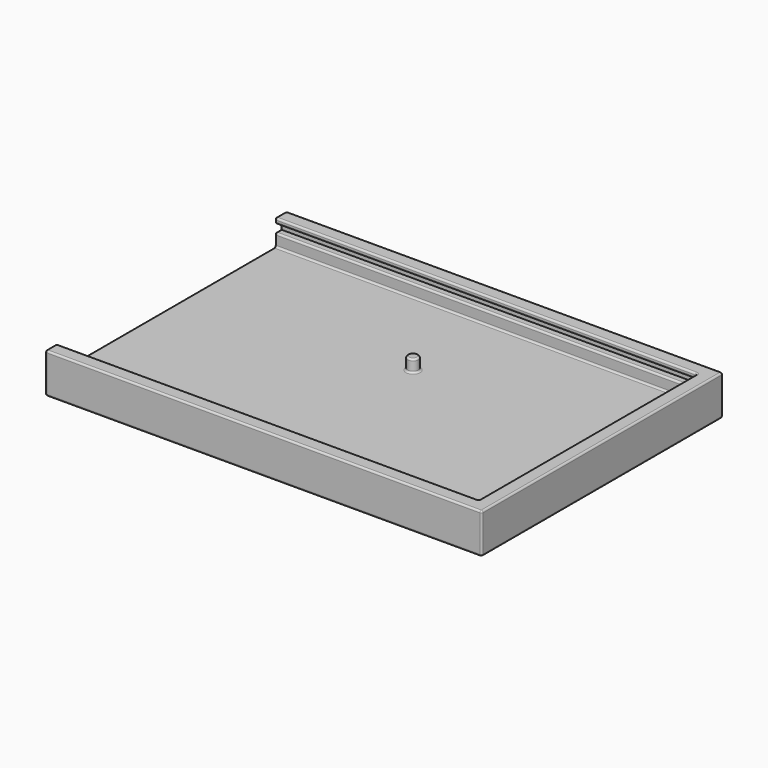
from build123d import *

# Parameters (mm, degrees)
SKETCH_W     = 122.2
SKETCH_H     = 84.4
PAD_DEPTH    = 4
SKETCH001_R  = 1.5
PAD001_DEPTH = 3.5
PAD002_DEPTH = 2.2
PAD003_DEPTH = 1.5
FILLET_R     = 0.5
POCKET_DEPTH = 0.25


with BuildPart() as part:
    # Sketch → Pad (new body)
    with BuildSketch(Plane.XY):
        with Locations((61.1, 42.2)):
            Rectangle(SKETCH_W, SKETCH_H)
    extrude(amount=PAD_DEPTH)

    # Sketch001 (on Face6 of Pad) → Pad001 (join)
    with BuildSketch(Plane.XY.offset(4)):
        with Locations((60, 53.733333)):
            Circle(SKETCH001_R)
        Polygon((0, 0), (122.2, 0), (122.2, 84.4), (0, 84.4), (0, 80.4), (118.2, 80.4), (118.2, 4), (0, 4), align=None)
    extrude(amount=PAD001_DEPTH)

    # Sketch002 (on Face5 of Pad001) → Pad002 (join)
    with BuildSketch(Plane.XY.offset(7.5)):
        Polygon((0, 0), (122.2, 0), (122.2, 84.4), (0, 84.4), (0, 82.4), (120.2, 82.4), (120.2, 2), (0, 2), align=None)
    extrude(amount=PAD002_DEPTH)

    # Sketch003 (on Face9 of Pad002) → Pad003 (join)
    with BuildSketch(Plane.XY.offset(9.7)):
        Polygon((0, 0), (122.2, 0), (122.2, 84.4), (0, 84.4), (0, 80.4), (118.2, 80.4), (118.2, 4), (0, 4), align=None)
    extrude(amount=PAD003_DEPTH)

    # Fillet
    fillet_edges = [part.edges().sort_by_distance(p)[0] for p in [
        (0, 42.2, 0),
        (0, 0, 5.6),
        (0, 2, 11.2),
        (0, 4, 10.45),
        (0, 3, 9.7),
        (0, 2, 8.6),
        (0, 3, 7.5),
        (0, 4, 5.75),
        (0, 42.2, 4),
        (0, 80.4, 5.75),
        (0, 81.4, 7.5),
        (0, 82.4, 8.6),
        (0, 81.4, 9.7),
        (0, 80.4, 10.45),
        (0, 82.4, 11.2),
        (0, 84.4, 5.6),
        (61.1, 0, 11.2),
        (122.2, 42.2, 11.2),
        (61.1, 84.4, 11.2),
        (59.1, 80.4, 11.2),
        (118.2, 42.2, 11.2),
        (59.1, 4, 11.2),
        (118.2, 80.4, 10.45),
        (59.1, 80.4, 9.7),
        (118.2, 80.4, 5.75),
        (59.1, 80.4, 4),
        (59.1, 80.4, 7.5),
        (118.2, 42.2, 4),
        (59.1, 4, 4),
        (58.5, 53.733333, 4),
        (61.1, 0, 0),
        (122.2, 0, 5.6),
        (61.5, 53.733333, 5.75),
        (58.5, 53.733333, 7.5),
        (122.2, 42.2, 0),
        (122.2, 84.4, 5.6),
        (61.1, 84.4, 0),
        (118.2, 4, 5.75),
        (118.2, 42.2, 7.5),
        (59.1, 4, 7.5),
        (118.2, 4, 10.45),
        (59.1, 4, 9.7),
        (118.2, 42.2, 9.7),
    ]]
    fillet(fillet_edges, radius=FILLET_R)

    # Sketch004 → Pocket (cut, symmetric)
    with BuildSketch(Plane(origin=(0, 0, 0), x_dir=(-1, 0, 0), z_dir=(0, 0, 1))):
        with BuildLine():
            add(Edge.make_bspline(
                [(-103.647814, -37.998612), (-104.577027, -37.998612), (-105.309283, -38.422775)],
                knots=[0, 0, 0, 1, 1, 1], degree=2))
            add(Edge.make_bspline(
                [(-105.309283, -38.422775), (-106.041539, -38.846938), (-106.460769, -39.660081)],
                knots=[0, 0, 0, 1, 1, 1], degree=2))
            add(Edge.make_bspline(
                [(-106.460769, -39.660081), (-106.88, -40.473224), (-106.88, -41.645097)],
                knots=[0, 0, 0, 1, 1, 1], degree=2))
            add(Edge.make_bspline(
                [(-106.88, -41.645097), (-106.88, -42.816641), (-106.430519, -43.629783)],
                knots=[0, 0, 0, 1, 1, 1], degree=2))
            add(Edge.make_bspline(
                [(-106.430519, -43.629783), (-105.981038, -44.442926), (-105.228725, -44.867089)],
                knots=[0, 0, 0, 1, 1, 1], degree=2))
            add(Edge.make_bspline(
                [(-105.228725, -44.867089), (-104.476082, -45.291581), (-103.566927, -45.291581)],
                knots=[0, 0, 0, 1, 1, 1], degree=2))
            add(Edge.make_bspline(
                [(-103.566927, -45.291581), (-103.031628, -45.291581), (-102.627522, -45.210694)],
                knots=[0, 0, 0, 1, 1, 1], degree=2))
            add(Edge.make_bspline(
                [(-102.627522, -45.210694), (-102.223417, -45.129807), (-101.940642, -45.01867)],
                knots=[0, 0, 0, 1, 1, 1], degree=2))
            add(Edge.make_bspline(
                [(-101.940642, -45.01867), (-101.657866, -44.907533), (-101.516479, -44.806588)],
                knots=[0, 0, 0, 1, 1, 1], degree=2))
            Line((-101.516479, -44.806588), (-101.769004, -44.140094))
            add(Edge.make_bspline(
                [(-101.769004, -44.140094), (-102.051779, -44.341982), (-102.53151, -44.468245)],
                knots=[0, 0, 0, 1, 1, 1], degree=2))
            add(Edge.make_bspline(
                [(-102.53151, -44.468245), (-103.011241, -44.594507), (-103.566927, -44.594507)],
                knots=[0, 0, 0, 1, 1, 1], degree=2))
            add(Edge.make_bspline(
                [(-103.566927, -44.594507), (-104.273865, -44.594507), (-104.834483, -44.261095)],
                knots=[0, 0, 0, 1, 1, 1], degree=2))
            add(Edge.make_bspline(
                [(-104.834483, -44.261095), (-105.395102, -43.928013), (-105.723581, -43.271382)],
                knots=[0, 0, 0, 1, 1, 1], degree=2))
            add(Edge.make_bspline(
                [(-105.723581, -43.271382), (-106.051732, -42.614752), (-106.051732, -41.645097)],
                knots=[0, 0, 0, 1, 1, 1], degree=2))
            add(Edge.make_bspline(
                [(-106.051732, -41.645097), (-106.051732, -40.746135), (-105.768957, -40.079311)],
                knots=[0, 0, 0, 1, 1, 1], degree=2))
            add(Edge.make_bspline(
                [(-105.768957, -40.079311), (-105.486181, -39.412817), (-104.925563, -39.049155)],
                knots=[0, 0, 0, 1, 1, 1], degree=2))
            add(Edge.make_bspline(
                [(-104.925563, -39.049155), (-104.364945, -38.685493), (-103.536677, -38.685493)],
                knots=[0, 0, 0, 1, 1, 1], degree=2))
            add(Edge.make_bspline(
                [(-103.536677, -38.685493), (-103.051685, -38.685493), (-102.723534, -38.741062)],
                knots=[0, 0, 0, 1, 1, 1], degree=2))
            add(Edge.make_bspline(
                [(-102.723534, -38.741062), (-102.395055, -38.79663), (-102.274053, -38.837074)],
                knots=[0, 0, 0, 1, 1, 1], degree=2))
            Line((-102.274053, -38.837074), (-102.274053, -41.493516))
            Line((-102.274053, -41.493516), (-101.486228, -41.493516))
            Line((-101.486228, -41.493516), (-101.486228, -38.332024))
            add(Edge.make_bspline(
                [(-101.486228, -38.332024), (-101.677924, -38.251137), (-102.248735, -38.124875)],
                knots=[0, 0, 0, 1, 1, 1], degree=2))
            add(Edge.make_bspline(
                [(-102.248735, -38.124875), (-102.819546, -37.998612), (-103.647814, -37.998612)],
                knots=[0, 0, 0, 1, 1, 1], degree=2))
        make_face()
        with BuildLine():
            add(Edge.make_bspline(
                [(-100.016455, -38.14), (-100.016455, -38.17025), (-100.021716, -38.240944)],
                knots=[0, 0, 0, 1, 1, 1], degree=2))
            add(Edge.make_bspline(
                [(-100.021716, -38.240944), (-100.026648, -38.311638), (-100.026648, -38.412582)],
                knots=[0, 0, 0, 1, 1, 1], degree=2))
            add(Edge.make_bspline(
                [(-100.026648, -38.412582), (-100.026648, -39.049155), (-99.738941, -39.56933)],
                knots=[0, 0, 0, 1, 1, 1], degree=2))
            add(Edge.make_bspline(
                [(-99.738941, -39.56933), (-99.450905, -40.089504), (-99.026742, -40.528792)],
                knots=[0, 0, 0, 1, 1, 1], degree=2))
            add(Edge.make_bspline(
                [(-99.026742, -40.528792), (-98.602251, -40.968409), (-98.198145, -41.352128)],
                knots=[0, 0, 0, 1, 1, 1], degree=2))
            add(Edge.make_bspline(
                [(-98.198145, -41.352128), (-97.85487, -41.675347), (-97.577027, -41.973247)],
                knots=[0, 0, 0, 1, 1, 1], degree=2))
            add(Edge.make_bspline(
                [(-97.577027, -41.973247), (-97.299184, -42.271148), (-97.127546, -42.604559)],
                knots=[0, 0, 0, 1, 1, 1], degree=2))
            add(Edge.make_bspline(
                [(-97.127546, -42.604559), (-96.955908, -42.937971), (-96.955908, -43.352269)],
                knots=[0, 0, 0, 1, 1, 1], degree=2))
            add(Edge.make_bspline(
                [(-96.955908, -43.352269), (-96.955908, -44.028957), (-97.31957, -44.321925)],
                knots=[0, 0, 0, 1, 1, 1], degree=2))
            add(Edge.make_bspline(
                [(-97.31957, -44.321925), (-97.683232, -44.614893), (-98.238589, -44.614893)],
                knots=[0, 0, 0, 1, 1, 1], degree=2))
            add(Edge.make_bspline(
                [(-98.238589, -44.614893), (-98.652887, -44.614893), (-98.960981, -44.488631)],
                knots=[0, 0, 0, 1, 1, 1], degree=2))
            add(Edge.make_bspline(
                [(-98.960981, -44.488631), (-99.269074, -44.362368), (-99.46603, -44.205527)],
                knots=[0, 0, 0, 1, 1, 1], degree=2))
            add(Edge.make_bspline(
                [(-99.46603, -44.205527), (-99.662986, -44.049014), (-99.753738, -43.958263)],
                knots=[0, 0, 0, 1, 1, 1], degree=2))
            Line((-99.753738, -43.958263), (-100.14765, -44.473177))
            add(Edge.make_bspline(
                [(-100.14765, -44.473177), (-100.036513, -44.594507), (-99.779056, -44.791463)],
                knots=[0, 0, 0, 1, 1, 1], degree=2))
            add(Edge.make_bspline(
                [(-99.779056, -44.791463), (-99.521599, -44.988419), (-99.127686, -45.14)],
                knots=[0, 0, 0, 1, 1, 1], degree=2))
            add(Edge.make_bspline(
                [(-99.127686, -45.14), (-98.733445, -45.291581), (-98.238589, -45.291581)],
                knots=[0, 0, 0, 1, 1, 1], degree=2))
            add(Edge.make_bspline(
                [(-98.238589, -45.291581), (-97.198239, -45.291581), (-96.673133, -44.786531)],
                knots=[0, 0, 0, 1, 1, 1], degree=2))
            add(Edge.make_bspline(
                [(-96.673133, -44.786531), (-96.147697, -44.281482), (-96.147697, -43.392384)],
                knots=[0, 0, 0, 1, 1, 1], degree=2))
            add(Edge.make_bspline(
                [(-96.147697, -43.392384), (-96.147697, -42.867277), (-96.390357, -42.417796)],
                knots=[0, 0, 0, 1, 1, 1], degree=2))
            add(Edge.make_bspline(
                [(-96.390357, -42.417796), (-96.632689, -41.968315), (-97.021669, -41.559278)],
                knots=[0, 0, 0, 1, 1, 1], degree=2))
            add(Edge.make_bspline(
                [(-97.021669, -41.559278), (-97.410321, -41.15024), (-97.834483, -40.746135)],
                knots=[0, 0, 0, 1, 1, 1], degree=2))
            add(Edge.make_bspline(
                [(-97.834483, -40.746135), (-98.157702, -40.43278), (-98.471056, -40.094437)],
                knots=[0, 0, 0, 1, 1, 1], degree=2))
            add(Edge.make_bspline(
                [(-98.471056, -40.094437), (-98.784082, -39.756093), (-98.981038, -39.427613)],
                knots=[0, 0, 0, 1, 1, 1], degree=2))
            add(Edge.make_bspline(
                [(-98.981038, -39.427613), (-99.177994, -39.099463), (-99.177994, -38.79663)],
                knots=[0, 0, 0, 1, 1, 1], degree=2))
            Line((-99.177994, -38.79663), (-95.915558, -38.79663))
            Line((-95.915558, -38.79663), (-95.915558, -38.14))
            Line((-95.915558, -38.14), (-100.016455, -38.14))
        make_face()
        Polygon((-94.202467, -38.14), (-94.202467, -45.14), (-93.414642, -45.14), (-93.414642, -38.826881), (-90.141684, -38.826881), (-90.141684, -38.14), align=None)
        with BuildLine():
            add(Edge.make_bspline(
                [(-87.532262, -38.028863), (-88.098141, -38.028863), (-88.54269, -38.190308)],
                knots=[0, 0, 0, 1, 1, 1], degree=2))
            add(Edge.make_bspline(
                [(-88.54269, -38.190308), (-88.98691, -38.352081), (-89.239434, -38.715743)],
                knots=[0, 0, 0, 1, 1, 1], degree=2))
            add(Edge.make_bspline(
                [(-89.239434, -38.715743), (-89.491959, -39.079405), (-89.491959, -39.675206)],
                knots=[0, 0, 0, 1, 1, 1], degree=2))
            add(Edge.make_bspline(
                [(-89.491959, -39.675206), (-89.491959, -40.250949), (-89.209184, -40.609679)],
                knots=[0, 0, 0, 1, 1, 1], degree=2))
            add(Edge.make_bspline(
                [(-89.209184, -40.609679), (-88.926409, -40.968409), (-88.42662, -41.129854)],
                knots=[0, 0, 0, 1, 1, 1], degree=2))
            add(Edge.make_bspline(
                [(-88.42662, -41.129854), (-87.926503, -41.291628), (-87.300123, -41.291628)],
                knots=[0, 0, 0, 1, 1, 1], degree=2))
            add(Edge.make_bspline(
                [(-87.300123, -41.291628), (-87.017348, -41.291628), (-86.704322, -41.240991)],
                knots=[0, 0, 0, 1, 1, 1], degree=2))
            add(Edge.make_bspline(
                [(-86.704322, -41.240991), (-86.390968, -41.190355), (-86.310081, -41.15024)],
                knots=[0, 0, 0, 1, 1, 1], degree=2))
            Line((-86.310081, -41.15024), (-86.310081, -41.453072))
            add(Edge.make_bspline(
                [(-86.310081, -41.453072), (-86.310081, -41.796677), (-86.396229, -42.114635)],
                knots=[0, 0, 0, 1, 1, 1], degree=2))
            add(Edge.make_bspline(
                [(-86.396229, -42.114635), (-86.482048, -42.432921), (-86.744766, -42.63481)],
                knots=[0, 0, 0, 1, 1, 1], degree=2))
            add(Edge.make_bspline(
                [(-86.744766, -42.63481), (-87.007155, -42.837027), (-87.542455, -42.837027)],
                knots=[0, 0, 0, 1, 1, 1], degree=2))
            add(Edge.make_bspline(
                [(-87.542455, -42.837027), (-88.098141, -42.837027), (-88.391109, -42.75614)],
                knots=[0, 0, 0, 1, 1, 1], degree=2))
            add(Edge.make_bspline(
                [(-88.391109, -42.75614), (-88.684077, -42.675253), (-88.825465, -42.624945)],
                knots=[0, 0, 0, 1, 1, 1], degree=2))
            Line((-88.825465, -42.624945), (-88.926409, -43.271382))
            add(Edge.make_bspline(
                [(-88.926409, -43.271382), (-88.744578, -43.352269), (-88.371052, -43.422963)],
                knots=[0, 0, 0, 1, 1, 1], degree=2))
            add(Edge.make_bspline(
                [(-88.371052, -43.422963), (-87.997197, -43.493657), (-87.492147, -43.493657)],
                knots=[0, 0, 0, 1, 1, 1], degree=2))
            add(Edge.make_bspline(
                [(-87.492147, -43.493657), (-86.774687, -43.493657), (-86.355786, -43.241132)],
                knots=[0, 0, 0, 1, 1, 1], degree=2))
            add(Edge.make_bspline(
                [(-86.355786, -43.241132), (-85.936555, -42.988607), (-85.749792, -42.548991)],
                knots=[0, 0, 0, 1, 1, 1], degree=2))
            add(Edge.make_bspline(
                [(-85.749792, -42.548991), (-85.5627, -42.109703), (-85.5627, -41.544152)],
                knots=[0, 0, 0, 1, 1, 1], degree=2))
            Line((-85.5627, -41.544152), (-85.5627, -38.26133))
            add(Edge.make_bspline(
                [(-85.5627, -38.26133), (-85.774781, -38.210694), (-86.320274, -38.119943)],
                knots=[0, 0, 0, 1, 1, 1], degree=2))
            add(Edge.make_bspline(
                [(-86.320274, -38.119943), (-86.865767, -38.028863), (-87.532262, -38.028863)],
                knots=[0, 0, 0, 1, 1, 1], degree=2))
        make_face()
        with BuildLine():
            add(Edge.make_bspline(
                [(-87.421453, -38.6753), (-87.067655, -38.6753), (-86.78488, -38.700618)],
                knots=[0, 0, 0, 1, 1, 1], degree=2))
            add(Edge.make_bspline(
                [(-86.78488, -38.700618), (-86.502105, -38.725936), (-86.310081, -38.76638)],
                knots=[0, 0, 0, 1, 1, 1], degree=2))
            Line((-86.310081, -38.76638), (-86.310081, -40.52386))
            add(Edge.make_bspline(
                [(-86.310081, -40.52386), (-86.411354, -40.574497), (-86.653686, -40.624804)],
                knots=[0, 0, 0, 1, 1, 1], degree=2))
            add(Edge.make_bspline(
                [(-86.653686, -40.624804), (-86.896018, -40.675441), (-87.279737, -40.675441)],
                knots=[0, 0, 0, 1, 1, 1], degree=2))
            add(Edge.make_bspline(
                [(-87.279737, -40.675441), (-87.603284, -40.675441), (-87.936696, -40.604747)],
                knots=[0, 0, 0, 1, 1, 1], degree=2))
            add(Edge.make_bspline(
                [(-87.936696, -40.604747), (-88.269779, -40.534053), (-88.496985, -40.321643)],
                knots=[0, 0, 0, 1, 1, 1], degree=2))
            add(Edge.make_bspline(
                [(-88.496985, -40.321643), (-88.724192, -40.109562), (-88.724192, -39.685399)],
                knots=[0, 0, 0, 1, 1, 1], degree=2))
            add(Edge.make_bspline(
                [(-88.724192, -39.685399), (-88.724192, -39.119849), (-88.370723, -38.897574)],
                knots=[0, 0, 0, 1, 1, 1], degree=2))
            add(Edge.make_bspline(
                [(-88.370723, -38.897574), (-88.017254, -38.6753), (-87.421453, -38.6753)],
                knots=[0, 0, 0, 1, 1, 1], degree=2))
        make_face(mode=Mode.SUBTRACT)
        with BuildLine():
            add(Edge.make_bspline(
                [(-81.991184, -38.01867), (-82.435733, -38.01867), (-82.799395, -38.064374)],
                knots=[0, 0, 0, 1, 1, 1], degree=2))
            add(Edge.make_bspline(
                [(-82.799395, -38.064374), (-83.163057, -38.10975), (-83.4409, -38.175182)],
                knots=[0, 0, 0, 1, 1, 1], degree=2))
            add(Edge.make_bspline(
                [(-83.4409, -38.175182), (-83.718414, -38.240944), (-83.920631, -38.301774)],
                knots=[0, 0, 0, 1, 1, 1], degree=2))
            Line((-83.920631, -38.301774), (-83.920631, -45.846938))
            Line((-83.920631, -45.846938), (-83.163057, -45.978461))
            Line((-83.163057, -45.978461), (-83.163057, -43.079358))
            add(Edge.make_bspline(
                [(-83.163057, -43.079358), (-82.981226, -43.210553), (-82.612632, -43.347008)],
                knots=[0, 0, 0, 1, 1, 1], degree=2))
            add(Edge.make_bspline(
                [(-82.612632, -43.347008), (-82.243709, -43.483464), (-81.758717, -43.483464)],
                knots=[0, 0, 0, 1, 1, 1], degree=2))
            add(Edge.make_bspline(
                [(-81.758717, -43.483464), (-81.001142, -43.483464), (-80.476035, -43.134927)],
                knots=[0, 0, 0, 1, 1, 1], degree=2))
            add(Edge.make_bspline(
                [(-80.476035, -43.134927), (-79.950929, -42.78639), (-79.673086, -42.170203)],
                knots=[0, 0, 0, 1, 1, 1], degree=2))
            add(Edge.make_bspline(
                [(-79.673086, -42.170203), (-79.395243, -41.554017), (-79.395243, -40.755999)],
                knots=[0, 0, 0, 1, 1, 1], degree=2))
            add(Edge.make_bspline(
                [(-79.395243, -40.755999), (-79.395243, -39.907673), (-79.718461, -39.296419)],
                knots=[0, 0, 0, 1, 1, 1], degree=2))
            add(Edge.make_bspline(
                [(-79.718461, -39.296419), (-80.04168, -38.685493), (-80.627616, -38.352081)],
                knots=[0, 0, 0, 1, 1, 1], degree=2))
            add(Edge.make_bspline(
                [(-80.627616, -38.352081), (-81.213552, -38.01867), (-81.991184, -38.01867)],
                knots=[0, 0, 0, 1, 1, 1], degree=2))
        make_face()
        with BuildLine():
            add(Edge.make_bspline(
                [(-82.001377, -38.695686), (-81.455884, -38.695686), (-81.046847, -38.938018)],
                knots=[0, 0, 0, 1, 1, 1], degree=2))
            add(Edge.make_bspline(
                [(-81.046847, -38.938018), (-80.637809, -39.180349), (-80.415535, -39.640023)],
                knots=[0, 0, 0, 1, 1, 1], degree=2))
            add(Edge.make_bspline(
                [(-80.415535, -39.640023), (-80.19326, -40.099697), (-80.19326, -40.755999)],
                knots=[0, 0, 0, 1, 1, 1], degree=2))
            add(Edge.make_bspline(
                [(-80.19326, -40.755999), (-80.19326, -41.18049), (-80.279079, -41.554017)],
                knots=[0, 0, 0, 1, 1, 1], degree=2))
            add(Edge.make_bspline(
                [(-80.279079, -41.554017), (-80.364898, -41.927872), (-80.561854, -42.210647)],
                knots=[0, 0, 0, 1, 1, 1], degree=2))
            add(Edge.make_bspline(
                [(-80.561854, -42.210647), (-80.758811, -42.493422), (-81.077097, -42.649935)],
                knots=[0, 0, 0, 1, 1, 1], degree=2))
            add(Edge.make_bspline(
                [(-81.077097, -42.649935), (-81.395383, -42.806776), (-81.849797, -42.806776)],
                knots=[0, 0, 0, 1, 1, 1], degree=2))
            add(Edge.make_bspline(
                [(-81.849797, -42.806776), (-82.284152, -42.806776), (-82.637621, -42.660128)],
                knots=[0, 0, 0, 1, 1, 1], degree=2))
            add(Edge.make_bspline(
                [(-82.637621, -42.660128), (-82.99109, -42.513808), (-83.163057, -42.37242)],
                knots=[0, 0, 0, 1, 1, 1], degree=2))
            Line((-83.163057, -42.37242), (-83.163057, -38.826881))
            add(Edge.make_bspline(
                [(-83.163057, -38.826881), (-83.02134, -38.786437), (-82.733633, -38.741062)],
                knots=[0, 0, 0, 1, 1, 1], degree=2))
            add(Edge.make_bspline(
                [(-82.733633, -38.741062), (-82.445597, -38.695686), (-82.001377, -38.695686)],
                knots=[0, 0, 0, 1, 1, 1], degree=2))
        make_face(mode=Mode.SUBTRACT)
        with BuildLine():
            add(Edge.make_bspline(
                [(-76.886106, -38.01867), (-77.562794, -38.01867), (-77.941581, -38.135068)],
                knots=[0, 0, 0, 1, 1, 1], degree=2))
            add(Edge.make_bspline(
                [(-77.941581, -38.135068), (-78.320368, -38.251137), (-78.451563, -38.311638)],
                knots=[0, 0, 0, 1, 1, 1], degree=2))
            Line((-78.451563, -38.311638), (-78.269732, -38.978461))
            add(Edge.make_bspline(
                [(-78.269732, -38.978461), (-78.158594, -38.938018), (-77.815319, -38.806494)],
                knots=[0, 0, 0, 1, 1, 1], degree=2))
            add(Edge.make_bspline(
                [(-77.815319, -38.806494), (-77.471714, -38.6753), (-76.886106, -38.6753)],
                knots=[0, 0, 0, 1, 1, 1], degree=2))
            add(Edge.make_bspline(
                [(-76.886106, -38.6753), (-76.33042, -38.6753), (-75.987144, -38.846938)],
                knots=[0, 0, 0, 1, 1, 1], degree=2))
            add(Edge.make_bspline(
                [(-75.987144, -38.846938), (-75.64354, -39.018905), (-75.64354, -39.443067)],
                knots=[0, 0, 0, 1, 1, 1], degree=2))
            add(Edge.make_bspline(
                [(-75.64354, -39.443067), (-75.64354, -39.715649), (-75.76487, -39.882355)],
                knots=[0, 0, 0, 1, 1, 1], degree=2))
            add(Edge.make_bspline(
                [(-75.76487, -39.882355), (-75.885871, -40.049061), (-76.153521, -40.190449)],
                knots=[0, 0, 0, 1, 1, 1], degree=2))
            add(Edge.make_bspline(
                [(-76.153521, -40.190449), (-76.421171, -40.331836), (-76.886106, -40.513667)],
                knots=[0, 0, 0, 1, 1, 1], degree=2))
            add(Edge.make_bspline(
                [(-76.886106, -40.513667), (-77.280019, -40.675441), (-77.61343, -40.857272)],
                knots=[0, 0, 0, 1, 1, 1], degree=2))
            add(Edge.make_bspline(
                [(-77.61343, -40.857272), (-77.946513, -41.039103), (-78.153662, -41.321878)],
                knots=[0, 0, 0, 1, 1, 1], degree=2))
            add(Edge.make_bspline(
                [(-78.153662, -41.321878), (-78.360812, -41.604653), (-78.360812, -42.049202)],
                knots=[0, 0, 0, 1, 1, 1], degree=2))
            add(Edge.make_bspline(
                [(-78.360812, -42.049202), (-78.360812, -42.483558), (-78.138537, -42.806776)],
                knots=[0, 0, 0, 1, 1, 1], degree=2))
            add(Edge.make_bspline(
                [(-78.138537, -42.806776), (-77.916263, -43.129995), (-77.507225, -43.311826)],
                knots=[0, 0, 0, 1, 1, 1], degree=2))
            add(Edge.make_bspline(
                [(-77.507225, -43.311826), (-77.098188, -43.493657), (-76.532309, -43.493657)],
                knots=[0, 0, 0, 1, 1, 1], degree=2))
            add(Edge.make_bspline(
                [(-76.532309, -43.493657), (-76.007202, -43.493657), (-75.64354, -43.402577)],
                knots=[0, 0, 0, 1, 1, 1], degree=2))
            add(Edge.make_bspline(
                [(-75.64354, -43.402577), (-75.279878, -43.311826), (-75.128297, -43.241132)],
                knots=[0, 0, 0, 1, 1, 1], degree=2))
            Line((-75.128297, -43.241132), (-75.300264, -42.584502))
            add(Edge.make_bspline(
                [(-75.300264, -42.584502), (-75.431458, -42.655196), (-75.724427, -42.751208)],
                knots=[0, 0, 0, 1, 1, 1], degree=2))
            add(Edge.make_bspline(
                [(-75.724427, -42.751208), (-76.017395, -42.84722), (-76.552695, -42.84722)],
                knots=[0, 0, 0, 1, 1, 1], degree=2))
            add(Edge.make_bspline(
                [(-76.552695, -42.84722), (-76.976857, -42.84722), (-77.290212, -42.670321)],
                knots=[0, 0, 0, 1, 1, 1], degree=2))
            add(Edge.make_bspline(
                [(-77.290212, -42.670321), (-77.603237, -42.493422), (-77.603237, -42.109703)],
                knots=[0, 0, 0, 1, 1, 1], degree=2))
            add(Edge.make_bspline(
                [(-77.603237, -42.109703), (-77.603237, -41.837121), (-77.472043, -41.670415)],
                knots=[0, 0, 0, 1, 1, 1], degree=2))
            add(Edge.make_bspline(
                [(-77.472043, -41.670415), (-77.340519, -41.503709), (-77.07813, -41.372186)],
                knots=[0, 0, 0, 1, 1, 1], degree=2))
            add(Edge.make_bspline(
                [(-77.07813, -41.372186), (-76.815413, -41.240991), (-76.431364, -41.08941)],
                knots=[0, 0, 0, 1, 1, 1], degree=2))
            add(Edge.make_bspline(
                [(-76.431364, -41.08941), (-75.997009, -40.917773), (-75.648801, -40.730681)],
                knots=[0, 0, 0, 1, 1, 1], degree=2))
            add(Edge.make_bspline(
                [(-75.648801, -40.730681), (-75.300264, -40.543918), (-75.088183, -40.250949)],
                knots=[0, 0, 0, 1, 1, 1], degree=2))
            add(Edge.make_bspline(
                [(-75.088183, -40.250949), (-74.875772, -39.95831), (-74.875772, -39.473318)],
                knots=[0, 0, 0, 1, 1, 1], degree=2))
            add(Edge.make_bspline(
                [(-74.875772, -39.473318), (-74.875772, -38.998518), (-75.118433, -38.670039)],
                knots=[0, 0, 0, 1, 1, 1], degree=2))
            add(Edge.make_bspline(
                [(-75.118433, -38.670039), (-75.360765, -38.341888), (-75.810246, -38.180115)],
                knots=[0, 0, 0, 1, 1, 1], degree=2))
            add(Edge.make_bspline(
                [(-75.810246, -38.180115), (-76.259727, -38.01867), (-76.886106, -38.01867)],
                knots=[0, 0, 0, 1, 1, 1], degree=2))
        make_face()
        with BuildLine():
            add(Edge.make_bspline(
                [(-68.719166, -37.988419), (-69.658571, -37.988419), (-70.22445, -38.352081)],
                knots=[0, 0, 0, 1, 1, 1], degree=2))
            add(Edge.make_bspline(
                [(-70.22445, -38.352081), (-70.79, -38.715743), (-71.047786, -39.341794)],
                knots=[0, 0, 0, 1, 1, 1], degree=2))
            add(Edge.make_bspline(
                [(-71.047786, -39.341794), (-71.305243, -39.968174), (-71.305243, -40.746135)],
                knots=[0, 0, 0, 1, 1, 1], degree=2))
            Line((-71.305243, -40.746135), (-71.305243, -45.14))
            Line((-71.305243, -45.14), (-70.517418, -45.14))
            Line((-70.517418, -45.14), (-70.517418, -40.836886))
            add(Edge.make_bspline(
                [(-70.517418, -40.836886), (-70.517418, -39.715649), (-70.017301, -39.205668)],
                knots=[0, 0, 0, 1, 1, 1], degree=2))
            add(Edge.make_bspline(
                [(-70.017301, -39.205668), (-69.517183, -38.695686), (-68.719166, -38.695686)],
                knots=[0, 0, 0, 1, 1, 1], degree=2))
            add(Edge.make_bspline(
                [(-68.719166, -38.695686), (-67.911284, -38.695686), (-67.411495, -39.2106)],
                knots=[0, 0, 0, 1, 1, 1], degree=2))
            add(Edge.make_bspline(
                [(-67.411495, -39.2106), (-66.911378, -39.725842), (-66.911378, -40.836886)],
                knots=[0, 0, 0, 1, 1, 1], degree=2))
            Line((-66.911378, -40.836886), (-66.911378, -45.14))
            Line((-66.911378, -45.14), (-66.123224, -45.14))
            Line((-66.123224, -45.14), (-66.123224, -40.746135))
            add(Edge.make_bspline(
                [(-66.123224, -40.746135), (-66.123224, -39.968174), (-66.38101, -39.341794)],
                knots=[0, 0, 0, 1, 1, 1], degree=2))
            add(Edge.make_bspline(
                [(-66.38101, -39.341794), (-66.638467, -38.715743), (-67.204346, -38.352081)],
                knots=[0, 0, 0, 1, 1, 1], degree=2))
            add(Edge.make_bspline(
                [(-67.204346, -38.352081), (-67.769896, -37.988419), (-68.719166, -37.988419)],
                knots=[0, 0, 0, 1, 1, 1], degree=2))
        make_face()
        with BuildLine():
            add(Edge.make_bspline(
                [(-62.817057, -37.988419), (-63.635132, -37.988419), (-64.175693, -38.17025)],
                knots=[0, 0, 0, 1, 1, 1], degree=2))
            add(Edge.make_bspline(
                [(-64.175693, -38.17025), (-64.715925, -38.352081), (-64.918142, -38.473412)],
                knots=[0, 0, 0, 1, 1, 1], degree=2))
            Line((-64.918142, -38.473412), (-64.665617, -39.139906))
            add(Edge.make_bspline(
                [(-64.665617, -39.139906), (-64.453207, -39.018905), (-63.983668, -38.846938)],
                knots=[0, 0, 0, 1, 1, 1], degree=2))
            add(Edge.make_bspline(
                [(-63.983668, -38.846938), (-63.513801, -38.6753), (-62.817057, -38.6753)],
                knots=[0, 0, 0, 1, 1, 1], degree=2))
            add(Edge.make_bspline(
                [(-62.817057, -38.6753), (-62.019039, -38.6753), (-61.584683, -38.963007)],
                knots=[0, 0, 0, 1, 1, 1], degree=2))
            add(Edge.make_bspline(
                [(-61.584683, -38.963007), (-61.150327, -39.251043), (-61.150327, -39.877423)],
                knots=[0, 0, 0, 1, 1, 1], degree=2))
            add(Edge.make_bspline(
                [(-61.150327, -39.877423), (-61.150327, -40.362087), (-61.387727, -40.63993)],
                knots=[0, 0, 0, 1, 1, 1], degree=2))
            add(Edge.make_bspline(
                [(-61.387727, -40.63993), (-61.625126, -40.917773), (-62.014107, -41.094343)],
                knots=[0, 0, 0, 1, 1, 1], degree=2))
            add(Edge.make_bspline(
                [(-62.014107, -41.094343), (-62.402758, -41.271241), (-62.867364, -41.453072)],
                knots=[0, 0, 0, 1, 1, 1], degree=2))
            add(Edge.make_bspline(
                [(-62.867364, -41.453072), (-63.433243, -41.675347), (-63.852474, -41.922611)],
                knots=[0, 0, 0, 1, 1, 1], degree=2))
            add(Edge.make_bspline(
                [(-63.852474, -41.922611), (-64.271376, -42.170203), (-64.498911, -42.528604)],
                knots=[0, 0, 0, 1, 1, 1], degree=2))
            add(Edge.make_bspline(
                [(-64.498911, -42.528604), (-64.726118, -42.887334), (-64.726118, -43.432827)],
                knots=[0, 0, 0, 1, 1, 1], degree=2))
            add(Edge.make_bspline(
                [(-64.726118, -43.432827), (-64.726118, -44.038821), (-64.453536, -44.453119)],
                knots=[0, 0, 0, 1, 1, 1], degree=2))
            add(Edge.make_bspline(
                [(-64.453536, -44.453119), (-64.180625, -44.867418), (-63.665711, -45.079499)],
                knots=[0, 0, 0, 1, 1, 1], degree=2))
            add(Edge.make_bspline(
                [(-63.665711, -45.079499), (-63.150468, -45.291581), (-62.443202, -45.291581)],
                knots=[0, 0, 0, 1, 1, 1], degree=2))
            add(Edge.make_bspline(
                [(-62.443202, -45.291581), (-61.857265, -45.291581), (-61.357477, -45.144932)],
                knots=[0, 0, 0, 1, 1, 1], degree=2))
            add(Edge.make_bspline(
                [(-61.357477, -45.144932), (-60.857359, -44.998612), (-60.584777, -44.826974)],
                knots=[0, 0, 0, 1, 1, 1], degree=2))
            Line((-60.584777, -44.826974), (-60.847166, -44.170344))
            add(Edge.make_bspline(
                [(-60.847166, -44.170344), (-61.140134, -44.372233), (-61.559365, -44.493563)],
                knots=[0, 0, 0, 1, 1, 1], degree=2))
            add(Edge.make_bspline(
                [(-61.559365, -44.493563), (-61.978595, -44.614893), (-62.453395, -44.614893)],
                knots=[0, 0, 0, 1, 1, 1], degree=2))
            add(Edge.make_bspline(
                [(-62.453395, -44.614893), (-63.099832, -44.614893), (-63.51413, -44.352175)],
                knots=[0, 0, 0, 1, 1, 1], degree=2))
            add(Edge.make_bspline(
                [(-63.51413, -44.352175), (-63.9281, -44.089457), (-63.9281, -43.493657)],
                knots=[0, 0, 0, 1, 1, 1], degree=2))
            add(Edge.make_bspline(
                [(-63.9281, -43.493657), (-63.9281, -43.089551), (-63.726212, -42.837027)],
                knots=[0, 0, 0, 1, 1, 1], degree=2))
            add(Edge.make_bspline(
                [(-63.726212, -42.837027), (-63.523994, -42.584502), (-63.170526, -42.412535)],
                knots=[0, 0, 0, 1, 1, 1], degree=2))
            add(Edge.make_bspline(
                [(-63.170526, -42.412535), (-62.817057, -42.240897), (-62.372508, -42.059066)],
                knots=[0, 0, 0, 1, 1, 1], degree=2))
            add(Edge.make_bspline(
                [(-62.372508, -42.059066), (-61.796764, -41.837121), (-61.337419, -41.589528)],
                knots=[0, 0, 0, 1, 1, 1], degree=2))
            add(Edge.make_bspline(
                [(-61.337419, -41.589528), (-60.877745, -41.341935), (-60.605163, -40.952955)],
                knots=[0, 0, 0, 1, 1, 1], degree=2))
            add(Edge.make_bspline(
                [(-60.605163, -40.952955), (-60.332252, -40.564304), (-60.332252, -39.907673)],
                knots=[0, 0, 0, 1, 1, 1], degree=2))
            add(Edge.make_bspline(
                [(-60.332252, -39.907673), (-60.332252, -39.271429), (-60.635413, -38.846938)],
                knots=[0, 0, 0, 1, 1, 1], degree=2))
            add(Edge.make_bspline(
                [(-60.635413, -38.846938), (-60.938246, -38.422775), (-61.493932, -38.205433)],
                knots=[0, 0, 0, 1, 1, 1], degree=2))
            add(Edge.make_bspline(
                [(-61.493932, -38.205433), (-62.049289, -37.988419), (-62.817057, -37.988419)],
                knots=[0, 0, 0, 1, 1, 1], degree=2))
        make_face()
        with BuildLine():
            add(Edge.make_bspline(
                [(-57.311819, -38.079499), (-57.55448, -38.079499), (-57.88263, -38.104818)],
                knots=[0, 0, 0, 1, 1, 1], degree=2))
            add(Edge.make_bspline(
                [(-57.88263, -38.104818), (-58.210781, -38.129807), (-58.524135, -38.17025)],
                knots=[0, 0, 0, 1, 1, 1], degree=2))
            add(Edge.make_bspline(
                [(-58.524135, -38.17025), (-58.837161, -38.210694), (-59.059435, -38.271195)],
                knots=[0, 0, 0, 1, 1, 1], degree=2))
            Line((-59.059435, -38.271195), (-59.059435, -45.008805))
            add(Edge.make_bspline(
                [(-59.059435, -45.008805), (-58.806911, -45.079499), (-58.488953, -45.119614)],
                knots=[0, 0, 0, 1, 1, 1], degree=2))
            add(Edge.make_bspline(
                [(-58.488953, -45.119614), (-58.170666, -45.160057), (-57.85238, -45.180115)],
                knots=[0, 0, 0, 1, 1, 1], degree=2))
            add(Edge.make_bspline(
                [(-57.85238, -45.180115), (-57.534094, -45.200501), (-57.271376, -45.200501)],
                knots=[0, 0, 0, 1, 1, 1], degree=2))
            add(Edge.make_bspline(
                [(-57.271376, -45.200501), (-56.493744, -45.200501), (-55.852568, -45.033795)],
                knots=[0, 0, 0, 1, 1, 1], degree=2))
            add(Edge.make_bspline(
                [(-55.852568, -45.033795), (-55.211063, -44.867418), (-54.822083, -44.468245)],
                knots=[0, 0, 0, 1, 1, 1], degree=2))
            add(Edge.make_bspline(
                [(-54.822083, -44.468245), (-54.433102, -44.0694), (-54.433102, -43.372327)],
                knots=[0, 0, 0, 1, 1, 1], degree=2))
            add(Edge.make_bspline(
                [(-54.433102, -43.372327), (-54.433102, -42.826834), (-54.710945, -42.432921)],
                knots=[0, 0, 0, 1, 1, 1], degree=2))
            add(Edge.make_bspline(
                [(-54.710945, -42.432921), (-54.988788, -42.039009), (-55.463588, -41.877235)],
                knots=[0, 0, 0, 1, 1, 1], degree=2))
            add(Edge.make_bspline(
                [(-55.463588, -41.877235), (-54.857265, -41.71579), (-54.473546, -41.316617)],
                knots=[0, 0, 0, 1, 1, 1], degree=2))
            add(Edge.make_bspline(
                [(-54.473546, -41.316617), (-54.089827, -40.917773), (-54.089827, -40.129948)],
                knots=[0, 0, 0, 1, 1, 1], degree=2))
            add(Edge.make_bspline(
                [(-54.089827, -40.129948), (-54.089827, -39.119849), (-54.882912, -38.599674)],
                knots=[0, 0, 0, 1, 1, 1], degree=2))
            add(Edge.make_bspline(
                [(-54.882912, -38.599674), (-55.675669, -38.079499), (-57.311819, -38.079499)],
                knots=[0, 0, 0, 1, 1, 1], degree=2))
        make_face()
        with BuildLine():
            add(Edge.make_bspline(
                [(-57.231261, -38.745994), (-56.624939, -38.745994), (-56.0949, -38.857131)],
                knots=[0, 0, 0, 1, 1, 1], degree=2))
            add(Edge.make_bspline(
                [(-56.0949, -38.857131), (-55.564532, -38.968268), (-55.241313, -39.271101)],
                knots=[0, 0, 0, 1, 1, 1], degree=2))
            add(Edge.make_bspline(
                [(-55.241313, -39.271101), (-54.918095, -39.574262), (-54.918095, -40.140141)],
                knots=[0, 0, 0, 1, 1, 1], degree=2))
            add(Edge.make_bspline(
                [(-54.918095, -40.140141), (-54.918095, -40.917773), (-55.44353, -41.190355)],
                knots=[0, 0, 0, 1, 1, 1], degree=2))
            add(Edge.make_bspline(
                [(-55.44353, -41.190355), (-55.968637, -41.463266), (-56.877463, -41.463266)],
                knots=[0, 0, 0, 1, 1, 1], degree=2))
            Line((-56.877463, -41.463266), (-58.281475, -41.463266))
            Line((-58.281475, -41.463266), (-58.281475, -38.806823))
            add(Edge.make_bspline(
                [(-58.281475, -38.806823), (-58.12003, -38.786437), (-57.827062, -38.766051)],
                knots=[0, 0, 0, 1, 1, 1], degree=2))
            add(Edge.make_bspline(
                [(-57.827062, -38.766051), (-57.534094, -38.745994), (-57.231261, -38.745994)],
                knots=[0, 0, 0, 1, 1, 1], degree=2))
        make_face(mode=Mode.SUBTRACT)
        with BuildLine():
            Line((-58.281475, -42.119896), (-57.008987, -42.119896))
            add(Edge.make_bspline(
                [(-57.008987, -42.119896), (-56.503937, -42.119896), (-56.105093, -42.22084)],
                knots=[0, 0, 0, 1, 1, 1], degree=2))
            add(Edge.make_bspline(
                [(-56.105093, -42.22084), (-55.705919, -42.321784), (-55.473781, -42.589434)],
                knots=[0, 0, 0, 1, 1, 1], degree=2))
            add(Edge.make_bspline(
                [(-55.473781, -42.589434), (-55.241313, -42.857084), (-55.241313, -43.342076)],
                knots=[0, 0, 0, 1, 1, 1], degree=2))
            add(Edge.make_bspline(
                [(-55.241313, -43.342076), (-55.241313, -43.998706), (-55.791738, -44.266356)],
                knots=[0, 0, 0, 1, 1, 1], degree=2))
            add(Edge.make_bspline(
                [(-55.791738, -44.266356), (-56.342163, -44.534006), (-57.241125, -44.534006)],
                knots=[0, 0, 0, 1, 1, 1], degree=2))
            add(Edge.make_bspline(
                [(-57.241125, -44.534006), (-57.58473, -44.534006), (-57.847448, -44.518881)],
                knots=[0, 0, 0, 1, 1, 1], degree=2))
            add(Edge.make_bspline(
                [(-57.847448, -44.518881), (-58.109837, -44.503756), (-58.281475, -44.473177)],
                knots=[0, 0, 0, 1, 1, 1], degree=2))
            Line((-58.281475, -44.473177), (-58.281475, -42.119896))
        make_face(mode=Mode.SUBTRACT)
        with BuildLine():
            Line((-50.326287, -38.14), (-50.326287, -45.008805))
            add(Edge.make_bspline(
                [(-50.326287, -45.008805), (-49.942567, -45.10975), (-49.44245, -45.155125)],
                knots=[0, 0, 0, 1, 1, 1], degree=2))
            add(Edge.make_bspline(
                [(-49.44245, -45.155125), (-48.942333, -45.200501), (-48.51817, -45.200501)],
                knots=[0, 0, 0, 1, 1, 1], degree=2))
            add(Edge.make_bspline(
                [(-48.51817, -45.200501), (-47.033272, -45.200501), (-46.290822, -44.62969)],
                knots=[0, 0, 0, 1, 1, 1], degree=2))
            add(Edge.make_bspline(
                [(-46.290822, -44.62969), (-45.548373, -44.059207), (-45.548373, -43.008665)],
                knots=[0, 0, 0, 1, 1, 1], degree=2))
            add(Edge.make_bspline(
                [(-45.548373, -43.008665), (-45.548373, -42.210647), (-45.917296, -41.725655)],
                knots=[0, 0, 0, 1, 1, 1], degree=2))
            add(Edge.make_bspline(
                [(-45.917296, -41.725655), (-46.28589, -41.240991), (-46.978032, -41.023649)],
                knots=[0, 0, 0, 1, 1, 1], degree=2))
            add(Edge.make_bspline(
                [(-46.978032, -41.023649), (-47.669844, -40.806635), (-48.6395, -40.806635)],
                knots=[0, 0, 0, 1, 1, 1], degree=2))
            Line((-48.6395, -40.806635), (-49.538462, -40.806635))
            Line((-49.538462, -40.806635), (-49.538462, -38.14))
            Line((-49.538462, -38.14), (-50.326287, -38.14))
        make_face()
        with BuildLine():
            Line((-49.538462, -41.483323), (-48.710194, -41.483323))
            add(Edge.make_bspline(
                [(-48.710194, -41.483323), (-47.993063, -41.483323), (-47.467956, -41.609585)],
                knots=[0, 0, 0, 1, 1, 1], degree=2))
            add(Edge.make_bspline(
                [(-47.467956, -41.609585), (-46.94252, -41.735848), (-46.654813, -42.069259)],
                knots=[0, 0, 0, 1, 1, 1], degree=2))
            add(Edge.make_bspline(
                [(-46.654813, -42.069259), (-46.366777, -42.402671), (-46.366777, -43.018858)],
                knots=[0, 0, 0, 1, 1, 1], degree=2))
            add(Edge.make_bspline(
                [(-46.366777, -43.018858), (-46.366777, -43.614658), (-46.669938, -43.937877)],
                knots=[0, 0, 0, 1, 1, 1], degree=2))
            add(Edge.make_bspline(
                [(-46.669938, -43.937877), (-46.972771, -44.261095), (-47.457763, -44.39229)],
                knots=[0, 0, 0, 1, 1, 1], degree=2))
            add(Edge.make_bspline(
                [(-47.457763, -44.39229), (-47.942427, -44.523813), (-48.487919, -44.523813)],
                knots=[0, 0, 0, 1, 1, 1], degree=2))
            add(Edge.make_bspline(
                [(-48.487919, -44.523813), (-48.841388, -44.523813), (-49.099174, -44.498495)],
                knots=[0, 0, 0, 1, 1, 1], degree=2))
            add(Edge.make_bspline(
                [(-49.099174, -44.498495), (-49.356631, -44.473177), (-49.538462, -44.453119)],
                knots=[0, 0, 0, 1, 1, 1], degree=2))
            Line((-49.538462, -44.453119), (-49.538462, -41.483323))
        make_face(mode=Mode.SUBTRACT)
        with BuildLine():
            add(Edge.make_bspline(
                [(-42.53912, -38.079499), (-42.963611, -38.079499), (-43.43841, -38.119943)],
                knots=[0, 0, 0, 1, 1, 1], degree=2))
            add(Edge.make_bspline(
                [(-43.43841, -38.119943), (-43.912881, -38.160057), (-44.286736, -38.26133)],
                knots=[0, 0, 0, 1, 1, 1], degree=2))
            Line((-44.286736, -38.26133), (-44.286736, -45.008805))
            add(Edge.make_bspline(
                [(-44.286736, -45.008805), (-43.912881, -45.10975), (-43.433149, -45.155125)],
                knots=[0, 0, 0, 1, 1, 1], degree=2))
            add(Edge.make_bspline(
                [(-43.433149, -45.155125), (-42.953418, -45.200501), (-42.529255, -45.200501)],
                knots=[0, 0, 0, 1, 1, 1], degree=2))
            add(Edge.make_bspline(
                [(-42.529255, -45.200501), (-41.387633, -45.200501), (-40.518921, -44.811521)],
                knots=[0, 0, 0, 1, 1, 1], degree=2))
            add(Edge.make_bspline(
                [(-40.518921, -44.811521), (-39.65021, -44.422869), (-39.160614, -43.635044)],
                knots=[0, 0, 0, 1, 1, 1], degree=2))
            add(Edge.make_bspline(
                [(-39.160614, -43.635044), (-38.67069, -42.84722), (-38.67069, -41.645097)],
                knots=[0, 0, 0, 1, 1, 1], degree=2))
            add(Edge.make_bspline(
                [(-38.67069, -41.645097), (-38.67069, -40.453166), (-39.160614, -39.660081)],
                knots=[0, 0, 0, 1, 1, 1], degree=2))
            add(Edge.make_bspline(
                [(-39.160614, -39.660081), (-39.65021, -38.867324), (-40.518921, -38.473412)],
                knots=[0, 0, 0, 1, 1, 1], degree=2))
            add(Edge.make_bspline(
                [(-40.518921, -38.473412), (-41.387633, -38.079499), (-42.53912, -38.079499)],
                knots=[0, 0, 0, 1, 1, 1], degree=2))
        make_face()
        with BuildLine():
            add(Edge.make_bspline(
                [(-42.458562, -38.756187), (-40.983528, -38.756187), (-40.241407, -39.528886)],
                knots=[0, 0, 0, 1, 1, 1], degree=2))
            add(Edge.make_bspline(
                [(-40.241407, -39.528886), (-39.498958, -40.301586), (-39.498958, -41.645097)],
                knots=[0, 0, 0, 1, 1, 1], degree=2))
            add(Edge.make_bspline(
                [(-39.498958, -41.645097), (-39.498958, -42.988607), (-40.236475, -43.756046)],
                knots=[0, 0, 0, 1, 1, 1], degree=2))
            add(Edge.make_bspline(
                [(-40.236475, -43.756046), (-40.973663, -44.523813), (-42.448369, -44.523813)],
                knots=[0, 0, 0, 1, 1, 1], degree=2))
            add(Edge.make_bspline(
                [(-42.448369, -44.523813), (-42.943225, -44.523813), (-43.185886, -44.493563)],
                knots=[0, 0, 0, 1, 1, 1], degree=2))
            add(Edge.make_bspline(
                [(-43.185886, -44.493563), (-43.428217, -44.463313), (-43.498911, -44.453119)],
                knots=[0, 0, 0, 1, 1, 1], degree=2))
            Line((-43.498911, -44.453119), (-43.498911, -38.826881))
            add(Edge.make_bspline(
                [(-43.498911, -38.826881), (-43.428217, -38.816687), (-43.196079, -38.786437)],
                knots=[0, 0, 0, 1, 1, 1], degree=2))
            add(Edge.make_bspline(
                [(-43.196079, -38.786437), (-42.963611, -38.756187), (-42.458562, -38.756187)],
                knots=[0, 0, 0, 1, 1, 1], degree=2))
        make_face(mode=Mode.SUBTRACT)
        with BuildLine():
            Line((-34.8381, -38.14), (-34.8381, -45.008805))
            add(Edge.make_bspline(
                [(-34.8381, -45.008805), (-34.454381, -45.10975), (-33.954264, -45.155125)],
                knots=[0, 0, 0, 1, 1, 1], degree=2))
            add(Edge.make_bspline(
                [(-33.954264, -45.155125), (-33.454146, -45.200501), (-33.029983, -45.200501)],
                knots=[0, 0, 0, 1, 1, 1], degree=2))
            add(Edge.make_bspline(
                [(-33.029983, -45.200501), (-31.545085, -45.200501), (-30.802636, -44.62969)],
                knots=[0, 0, 0, 1, 1, 1], degree=2))
            add(Edge.make_bspline(
                [(-30.802636, -44.62969), (-30.060187, -44.059207), (-30.060187, -43.008665)],
                knots=[0, 0, 0, 1, 1, 1], degree=2))
            add(Edge.make_bspline(
                [(-30.060187, -43.008665), (-30.060187, -42.210647), (-30.42911, -41.725655)],
                knots=[0, 0, 0, 1, 1, 1], degree=2))
            add(Edge.make_bspline(
                [(-30.42911, -41.725655), (-30.797704, -41.240991), (-31.489845, -41.023649)],
                knots=[0, 0, 0, 1, 1, 1], degree=2))
            add(Edge.make_bspline(
                [(-31.489845, -41.023649), (-32.181658, -40.806635), (-33.151314, -40.806635)],
                knots=[0, 0, 0, 1, 1, 1], degree=2))
            Line((-33.151314, -40.806635), (-34.050276, -40.806635))
            Line((-34.050276, -40.806635), (-34.050276, -38.14))
            Line((-34.050276, -38.14), (-34.8381, -38.14))
        make_face()
        with BuildLine():
            Line((-34.050276, -41.483323), (-33.222008, -41.483323))
            add(Edge.make_bspline(
                [(-33.222008, -41.483323), (-32.504877, -41.483323), (-31.97977, -41.609585)],
                knots=[0, 0, 0, 1, 1, 1], degree=2))
            add(Edge.make_bspline(
                [(-31.97977, -41.609585), (-31.454334, -41.735848), (-31.166627, -42.069259)],
                knots=[0, 0, 0, 1, 1, 1], degree=2))
            add(Edge.make_bspline(
                [(-31.166627, -42.069259), (-30.878591, -42.402671), (-30.878591, -43.018858)],
                knots=[0, 0, 0, 1, 1, 1], degree=2))
            add(Edge.make_bspline(
                [(-30.878591, -43.018858), (-30.878591, -43.614658), (-31.181752, -43.937877)],
                knots=[0, 0, 0, 1, 1, 1], degree=2))
            add(Edge.make_bspline(
                [(-31.181752, -43.937877), (-31.484584, -44.261095), (-31.969577, -44.39229)],
                knots=[0, 0, 0, 1, 1, 1], degree=2))
            add(Edge.make_bspline(
                [(-31.969577, -44.39229), (-32.45424, -44.523813), (-32.999733, -44.523813)],
                knots=[0, 0, 0, 1, 1, 1], degree=2))
            add(Edge.make_bspline(
                [(-32.999733, -44.523813), (-33.353202, -44.523813), (-33.610988, -44.498495)],
                knots=[0, 0, 0, 1, 1, 1], degree=2))
            add(Edge.make_bspline(
                [(-33.610988, -44.498495), (-33.868445, -44.473177), (-34.050276, -44.453119)],
                knots=[0, 0, 0, 1, 1, 1], degree=2))
            Line((-34.050276, -44.453119), (-34.050276, -41.483323))
        make_face(mode=Mode.SUBTRACT)
        with BuildLine():
            add(Edge.make_bspline(
                [(-27.25315, -37.988419), (-28.071225, -37.988419), (-28.611786, -38.17025)],
                knots=[0, 0, 0, 1, 1, 1], degree=2))
            add(Edge.make_bspline(
                [(-28.611786, -38.17025), (-29.152018, -38.352081), (-29.354235, -38.473412)],
                knots=[0, 0, 0, 1, 1, 1], degree=2))
            Line((-29.354235, -38.473412), (-29.101711, -39.139906))
            add(Edge.make_bspline(
                [(-29.101711, -39.139906), (-28.8893, -39.018905), (-28.419762, -38.846938)],
                knots=[0, 0, 0, 1, 1, 1], degree=2))
            add(Edge.make_bspline(
                [(-28.419762, -38.846938), (-27.949895, -38.6753), (-27.25315, -38.6753)],
                knots=[0, 0, 0, 1, 1, 1], degree=2))
            add(Edge.make_bspline(
                [(-27.25315, -38.6753), (-26.455133, -38.6753), (-26.020777, -38.963007)],
                knots=[0, 0, 0, 1, 1, 1], degree=2))
            add(Edge.make_bspline(
                [(-26.020777, -38.963007), (-25.586421, -39.251043), (-25.586421, -39.877423)],
                knots=[0, 0, 0, 1, 1, 1], degree=2))
            add(Edge.make_bspline(
                [(-25.586421, -39.877423), (-25.586421, -40.362087), (-25.823821, -40.63993)],
                knots=[0, 0, 0, 1, 1, 1], degree=2))
            add(Edge.make_bspline(
                [(-25.823821, -40.63993), (-26.06122, -40.917773), (-26.4502, -41.094343)],
                knots=[0, 0, 0, 1, 1, 1], degree=2))
            add(Edge.make_bspline(
                [(-26.4502, -41.094343), (-26.838852, -41.271241), (-27.303458, -41.453072)],
                knots=[0, 0, 0, 1, 1, 1], degree=2))
            add(Edge.make_bspline(
                [(-27.303458, -41.453072), (-27.869337, -41.675347), (-28.288568, -41.922611)],
                knots=[0, 0, 0, 1, 1, 1], degree=2))
            add(Edge.make_bspline(
                [(-28.288568, -41.922611), (-28.707469, -42.170203), (-28.935005, -42.528604)],
                knots=[0, 0, 0, 1, 1, 1], degree=2))
            add(Edge.make_bspline(
                [(-28.935005, -42.528604), (-29.162211, -42.887334), (-29.162211, -43.432827)],
                knots=[0, 0, 0, 1, 1, 1], degree=2))
            add(Edge.make_bspline(
                [(-29.162211, -43.432827), (-29.162211, -44.038821), (-28.889629, -44.453119)],
                knots=[0, 0, 0, 1, 1, 1], degree=2))
            add(Edge.make_bspline(
                [(-28.889629, -44.453119), (-28.616718, -44.867418), (-28.101805, -45.079499)],
                knots=[0, 0, 0, 1, 1, 1], degree=2))
            add(Edge.make_bspline(
                [(-28.101805, -45.079499), (-27.586562, -45.291581), (-26.879295, -45.291581)],
                knots=[0, 0, 0, 1, 1, 1], degree=2))
            add(Edge.make_bspline(
                [(-26.879295, -45.291581), (-26.293359, -45.291581), (-25.79357, -45.144932)],
                knots=[0, 0, 0, 1, 1, 1], degree=2))
            add(Edge.make_bspline(
                [(-25.79357, -45.144932), (-25.293453, -44.998612), (-25.020871, -44.826974)],
                knots=[0, 0, 0, 1, 1, 1], degree=2))
            Line((-25.020871, -44.826974), (-25.28326, -44.170344))
            add(Edge.make_bspline(
                [(-25.28326, -44.170344), (-25.576228, -44.372233), (-25.995459, -44.493563)],
                knots=[0, 0, 0, 1, 1, 1], degree=2))
            add(Edge.make_bspline(
                [(-25.995459, -44.493563), (-26.414689, -44.614893), (-26.889488, -44.614893)],
                knots=[0, 0, 0, 1, 1, 1], degree=2))
            add(Edge.make_bspline(
                [(-26.889488, -44.614893), (-27.535925, -44.614893), (-27.950224, -44.352175)],
                knots=[0, 0, 0, 1, 1, 1], degree=2))
            add(Edge.make_bspline(
                [(-27.950224, -44.352175), (-28.364194, -44.089457), (-28.364194, -43.493657)],
                knots=[0, 0, 0, 1, 1, 1], degree=2))
            add(Edge.make_bspline(
                [(-28.364194, -43.493657), (-28.364194, -43.089551), (-28.162305, -42.837027)],
                knots=[0, 0, 0, 1, 1, 1], degree=2))
            add(Edge.make_bspline(
                [(-28.162305, -42.837027), (-27.960088, -42.584502), (-27.606619, -42.412535)],
                knots=[0, 0, 0, 1, 1, 1], degree=2))
            add(Edge.make_bspline(
                [(-27.606619, -42.412535), (-27.25315, -42.240897), (-26.808602, -42.059066)],
                knots=[0, 0, 0, 1, 1, 1], degree=2))
            add(Edge.make_bspline(
                [(-26.808602, -42.059066), (-26.232858, -41.837121), (-25.773513, -41.589528)],
                knots=[0, 0, 0, 1, 1, 1], degree=2))
            add(Edge.make_bspline(
                [(-25.773513, -41.589528), (-25.313839, -41.341935), (-25.041257, -40.952955)],
                knots=[0, 0, 0, 1, 1, 1], degree=2))
            add(Edge.make_bspline(
                [(-25.041257, -40.952955), (-24.768346, -40.564304), (-24.768346, -39.907673)],
                knots=[0, 0, 0, 1, 1, 1], degree=2))
            add(Edge.make_bspline(
                [(-24.768346, -39.907673), (-24.768346, -39.271429), (-25.071507, -38.846938)],
                knots=[0, 0, 0, 1, 1, 1], degree=2))
            add(Edge.make_bspline(
                [(-25.071507, -38.846938), (-25.37434, -38.422775), (-25.930026, -38.205433)],
                knots=[0, 0, 0, 1, 1, 1], degree=2))
            add(Edge.make_bspline(
                [(-25.930026, -38.205433), (-26.485383, -37.988419), (-27.25315, -37.988419)],
                knots=[0, 0, 0, 1, 1, 1], degree=2))
        make_face()
        with BuildLine():
            add(Edge.make_bspline(
                [(-20.949895, -37.988419), (-21.8893, -37.988419), (-22.45518, -38.352081)],
                knots=[0, 0, 0, 1, 1, 1], degree=2))
            add(Edge.make_bspline(
                [(-22.45518, -38.352081), (-23.02073, -38.715743), (-23.278516, -39.341794)],
                knots=[0, 0, 0, 1, 1, 1], degree=2))
            add(Edge.make_bspline(
                [(-23.278516, -39.341794), (-23.535972, -39.968174), (-23.535972, -40.746135)],
                knots=[0, 0, 0, 1, 1, 1], degree=2))
            Line((-23.535972, -40.746135), (-23.535972, -45.14))
            Line((-23.535972, -45.14), (-22.748148, -45.14))
            Line((-22.748148, -45.14), (-22.748148, -40.836886))
            add(Edge.make_bspline(
                [(-22.748148, -40.836886), (-22.748148, -39.715649), (-22.24803, -39.205668)],
                knots=[0, 0, 0, 1, 1, 1], degree=2))
            add(Edge.make_bspline(
                [(-22.24803, -39.205668), (-21.747913, -38.695686), (-20.949895, -38.695686)],
                knots=[0, 0, 0, 1, 1, 1], degree=2))
            add(Edge.make_bspline(
                [(-20.949895, -38.695686), (-20.142013, -38.695686), (-19.642225, -39.2106)],
                knots=[0, 0, 0, 1, 1, 1], degree=2))
            add(Edge.make_bspline(
                [(-19.642225, -39.2106), (-19.142107, -39.725842), (-19.142107, -40.836886)],
                knots=[0, 0, 0, 1, 1, 1], degree=2))
            Line((-19.142107, -40.836886), (-19.142107, -45.14))
            Line((-19.142107, -45.14), (-18.353954, -45.14))
            Line((-18.353954, -45.14), (-18.353954, -40.746135))
            add(Edge.make_bspline(
                [(-18.353954, -40.746135), (-18.353954, -39.968174), (-18.611739, -39.341794)],
                knots=[0, 0, 0, 1, 1, 1], degree=2))
            add(Edge.make_bspline(
                [(-18.611739, -39.341794), (-18.869196, -38.715743), (-19.435075, -38.352081)],
                knots=[0, 0, 0, 1, 1, 1], degree=2))
            add(Edge.make_bspline(
                [(-19.435075, -38.352081), (-20.000626, -37.988419), (-20.949895, -37.988419)],
                knots=[0, 0, 0, 1, 1, 1], degree=2))
        make_face()
    extrude(amount=POCKET_DEPTH, both=True, mode=Mode.SUBTRACT)


solid = part.part
